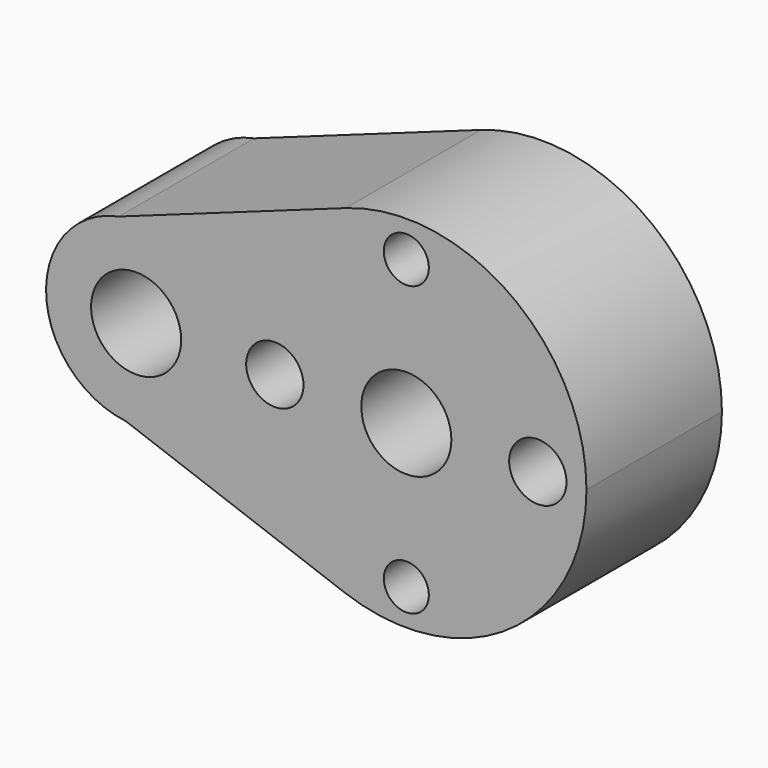
from build123d import *

# Parameters (mm, degrees)
F0_R     = 2.0193
F0_R_2   = 1.5875
F0_R_3   = 3.175
F1_DEPTH = 11.938


with BuildPart() as f1:
    # F0 (on Front) → F1 (new body)
    with BuildSketch(Plane.XZ):
        with BuildLine():
            ThreePointArc((-4.349017, -11.932143), (7.282083, -10.404867), (12.7, 0))
            ThreePointArc((12.7, 0), (7.311906, 10.383931), (-4.280476, 11.956903))
            ThreePointArc((-4.280476, 11.956903), (-10.383931, 7.311906), (-12.7, 0))
            ThreePointArc((-12.7, 0), (-10.404867, -7.282083), (-4.349017, -11.932143))
        make_face()
        with Locations((-9.271, 0)):
            Circle(F0_R, mode=Mode.SUBTRACT)
        with Locations((0, -10.16)):
            Circle(F0_R_2, mode=Mode.SUBTRACT)
        Circle(F0_R_3, mode=Mode.SUBTRACT)
        with Locations((9.271, 0)):
            Circle(F0_R, mode=Mode.SUBTRACT)
        with Locations((0, 10.16)):
            Circle(F0_R_2, mode=Mode.SUBTRACT)
        with BuildLine():
            ThreePointArc((-12.7, 0), (-10.383931, 7.311906), (-4.280476, 11.956903))
            Line((-4.280476, 11.956903), (-20.276672, 6.230391))
            ThreePointArc((-20.276672, 6.230391), (-15.016817, 4.904685), (-12.7, 0))
        make_face()
        with BuildLine():
            Line((-19.779888, -6.307913), (-4.349017, -11.932143))
            ThreePointArc((-4.349017, -11.932143), (-10.404867, -7.282083), (-12.7, 0))
            ThreePointArc((-12.7, 0), (-14.825801, -4.741165), (-19.779888, -6.307913))
        make_face()
        with BuildLine():
            ThreePointArc((-19.779888, -6.307913), (-14.825801, -4.741165), (-12.7, 0))
            ThreePointArc((-12.7, 0), (-15.016817, 4.904685), (-20.276672, 6.230391))
            ThreePointArc((-20.276672, 6.230391), (-25.395022, -0.251398), (-19.779888, -6.307913))
        make_face()
        with Locations((-19.05, 0)):
            Circle(F0_R_3, mode=Mode.SUBTRACT)
    extrude(amount=F1_DEPTH)


solid = f1.part
